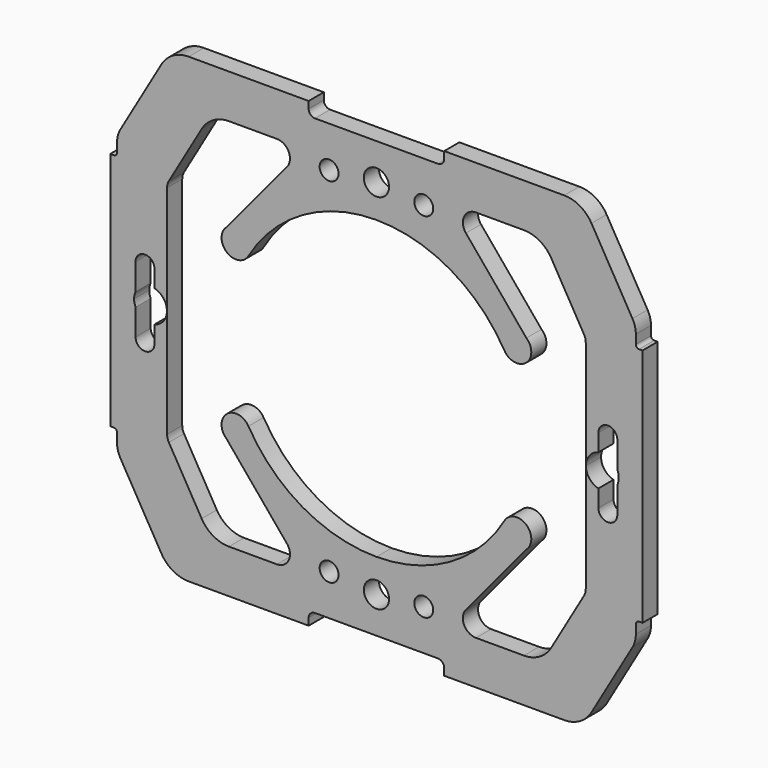
from build123d import *

# Parameters (mm, degrees)
F0_R     = 1.5
F0_R_2   = 2
F1_DEPTH = 3


with BuildPart() as f1:
    # F0 (on Front) → F1 (new body)
    with BuildSketch(Plane.XZ):
        with BuildLine():
            Line((41.110818, 19.5), (41.110818, 20.922697))
            ThreePointArc((41.110818, 20.922697), (40.973189, 21.962933), (40.569773, 22.931585))
            Line((40.569773, 22.931585), (34.076942, 34.11111))
            ThreePointArc((34.076942, 34.11111), (32.247687, 35.933333), (29.753248, 36.6))
            Line((29.753248, 36.6), (10.738378, 36.6))
            Line((10.738378, 36.6), (10.738378, 35.500753))
            ThreePointArc((10.738378, 35.500753), (10.445485, 34.793646), (9.738378, 34.500753))
            Line((9.738378, 34.500753), (0, 34.500753))
            Line((0, 34.500753), (-9.738378, 34.500753))
            ThreePointArc((-9.738378, 34.500753), (-10.445485, 34.793646), (-10.738378, 35.500753))
            Line((-10.738378, 35.500753), (-10.738378, 36.6))
            Line((-10.738378, 36.6), (-29.753248, 36.6))
            ThreePointArc((-29.753248, 36.6), (-32.247687, 35.933333), (-34.076942, 34.11111))
            Line((-34.076942, 34.11111), (-40.569773, 22.931585))
            ThreePointArc((-40.569773, 22.931585), (-40.973189, 21.962933), (-41.110818, 20.922697))
            Line((-41.110818, 20.922697), (-41.110818, 19.5))
            ThreePointArc((-41.110818, 19.5), (-41.257265, 19.146447), (-41.610818, 19))
            Line((-41.610818, 19), (-42.170605, 19))
            Line((-42.170605, 19), (-42.170605, 0))
            Line((-42.170605, 0), (-42.170605, -19))
            Line((-42.170605, -19), (-41.610818, -19))
            ThreePointArc((-41.610818, -19), (-41.257265, -19.146447), (-41.110818, -19.5))
            Line((-41.110818, -19.5), (-41.110818, -20.922697))
            ThreePointArc((-41.110818, -20.922697), (-40.973189, -21.962933), (-40.569773, -22.931585))
            Line((-40.569773, -22.931585), (-34.076942, -34.11111))
            ThreePointArc((-34.076942, -34.11111), (-32.247687, -35.933333), (-29.753248, -36.6))
            Line((-29.753248, -36.6), (-10.738378, -36.6))
            Line((-10.738378, -36.6), (-10.738378, -35.500753))
            ThreePointArc((-10.738378, -35.500753), (-10.445485, -34.793646), (-9.738378, -34.500753))
            Line((-9.738378, -34.500753), (0, -34.500753))
            Line((0, -34.500753), (9.738378, -34.500753))
            ThreePointArc((9.738378, -34.500753), (10.445485, -34.793646), (10.738378, -35.500753))
            Line((10.738378, -35.500753), (10.738378, -36.6))
            Line((10.738378, -36.6), (29.753248, -36.6))
            ThreePointArc((29.753248, -36.6), (32.247687, -35.933333), (34.076942, -34.11111))
            Line((34.076942, -34.11111), (40.569773, -22.931585))
            ThreePointArc((40.569773, -22.931585), (40.973189, -21.962933), (41.110818, -20.922697))
            Line((41.110818, -20.922697), (41.110818, -19.5))
            ThreePointArc((41.110818, -19.5), (41.257265, -19.146447), (41.610818, -19))
            Line((41.610818, -19), (42.170605, -19))
            Line((42.170605, -19), (42.170605, 0))
            Line((42.170605, 0), (42.170605, 19))
            Line((42.170605, 19), (41.610818, 19))
            ThreePointArc((41.610818, 19), (41.257265, 19.146447), (41.110818, 19.5))
        make_face()
        with Locations((-7.5, -28)):
            Circle(F0_R, mode=Mode.SUBTRACT)
        with Locations((0, -28.75)):
            Circle(F0_R_2, mode=Mode.SUBTRACT)
        with Locations((7.5, -28)):
            Circle(F0_R, mode=Mode.SUBTRACT)
        with BuildLine():
            ThreePointArc((-35.170605, 2.52267), (-33.751046, 1.600558), (-33.2, 0))
            ThreePointArc((-33.2, 0), (-33.751046, -1.600558), (-35.170605, -2.52267))
            Line((-35.170605, -2.52267), (-35.170605, -5.25))
            ThreePointArc((-35.170605, -5.25), (-36.670605, -6.75), (-38.170605, -5.25))
            Line((-38.170605, -5.25), (-38.170605, -1.067816))
            ThreePointArc((-38.170605, -1.067816), (-38.342004, -0.546089), (-38.4, 0))
            ThreePointArc((-38.4, 0), (-38.342004, 0.546089), (-38.170605, 1.067816))
            Line((-38.170605, 1.067816), (-38.170605, 5.25))
            ThreePointArc((-38.170605, 5.25), (-36.670605, 6.75), (-35.170605, 5.25))
            Line((-35.170605, 5.25), (-35.170605, 2.52267))
        make_face(mode=Mode.SUBTRACT)
        with Locations((-7.5, 28)):
            Circle(F0_R, mode=Mode.SUBTRACT)
        with BuildLine():
            ThreePointArc((23.368655, 29.672794), (25.863094, 29.006127), (27.692349, 27.183904))
            Line((27.692349, 27.183904), (32.890436, 18.233704))
            ThreePointArc((32.890436, 18.233704), (33.099337, 17.732107), (33.170605, 17.193441))
            Line((33.170605, 17.193441), (33.170605, 0))
            Line((33.170605, 0), (33.170605, -17.193441))
            ThreePointArc((33.170605, -17.193441), (33.099337, -17.732107), (32.890436, -18.233704))
            Line((32.890436, -18.233704), (27.692349, -27.183904))
            ThreePointArc((27.692349, -27.183904), (25.863094, -29.006127), (23.368655, -29.672794))
            Line((23.368655, -29.672794), (15.767856, -29.672794))
            ThreePointArc((15.767856, -29.672794), (13.892719, -28.480943), (14.175847, -26.2772))
            Line((14.175847, -26.2772), (23.769717, -14.746473))
            ThreePointArc((23.769717, -14.746473), (23.705468, -11.265364), (20.277872, -11.876781))
            ThreePointArc((20.277872, -11.876781), (11.686438, -20.388163), (0, -23.5))
            ThreePointArc((0, -23.5), (-11.686438, -20.388163), (-20.277872, -11.876781))
            ThreePointArc((-20.277872, -11.876781), (-23.705468, -11.265364), (-23.769717, -14.746473))
            Line((-23.769717, -14.746473), (-14.175847, -26.2772))
            ThreePointArc((-14.175847, -26.2772), (-13.892719, -28.480943), (-15.767856, -29.672794))
            Line((-15.767856, -29.672794), (-23.368655, -29.672794))
            ThreePointArc((-23.368655, -29.672794), (-25.863094, -29.006127), (-27.692349, -27.183904))
            Line((-27.692349, -27.183904), (-32.890436, -18.233704))
            ThreePointArc((-32.890436, -18.233704), (-33.099337, -17.732107), (-33.170605, -17.193441))
            Line((-33.170605, -17.193441), (-33.170605, 0))
            Line((-33.170605, 0), (-33.170605, 17.193441))
            ThreePointArc((-33.170605, 17.193441), (-33.099337, 17.732107), (-32.890436, 18.233704))
            Line((-32.890436, 18.233704), (-27.692349, 27.183904))
            ThreePointArc((-27.692349, 27.183904), (-25.863094, 29.006127), (-23.368655, 29.672794))
            Line((-23.368655, 29.672794), (-15.767856, 29.672794))
            ThreePointArc((-15.767856, 29.672794), (-13.892719, 28.480943), (-14.175847, 26.2772))
            Line((-14.175847, 26.2772), (-23.769717, 14.746473))
            ThreePointArc((-23.769717, 14.746473), (-23.705468, 11.265364), (-20.277872, 11.876781))
            ThreePointArc((-20.277872, 11.876781), (-11.686438, 20.388163), (0, 23.5))
            ThreePointArc((0, 23.5), (11.686438, 20.388163), (20.277872, 11.876781))
            ThreePointArc((20.277872, 11.876781), (23.705468, 11.265364), (23.769717, 14.746473))
            Line((23.769717, 14.746473), (14.175847, 26.2772))
            ThreePointArc((14.175847, 26.2772), (13.892719, 28.480943), (15.767856, 29.672794))
            Line((15.767856, 29.672794), (23.368655, 29.672794))
        make_face(mode=Mode.SUBTRACT)
        with BuildLine():
            ThreePointArc((35.170605, -2.52267), (33.751046, -1.600558), (33.2, 0))
            ThreePointArc((33.2, 0), (33.751046, 1.600558), (35.170605, 2.52267))
            Line((35.170605, 2.52267), (35.170605, 5.25))
            ThreePointArc((35.170605, 5.25), (36.670605, 6.75), (38.170605, 5.25))
            Line((38.170605, 5.25), (38.170605, 1.067816))
            ThreePointArc((38.170605, 1.067816), (38.342004, 0.546089), (38.4, 0))
            ThreePointArc((38.4, 0), (38.342004, -0.546089), (38.170605, -1.067816))
            Line((38.170605, -1.067816), (38.170605, -5.25))
            ThreePointArc((38.170605, -5.25), (36.670605, -6.75), (35.170605, -5.25))
            Line((35.170605, -5.25), (35.170605, -2.52267))
        make_face(mode=Mode.SUBTRACT)
        with Locations((0, 28.75)):
            Circle(F0_R_2, mode=Mode.SUBTRACT)
        with Locations((7.5, 28)):
            Circle(F0_R, mode=Mode.SUBTRACT)
    extrude(amount=F1_DEPTH)


solid = f1.part
